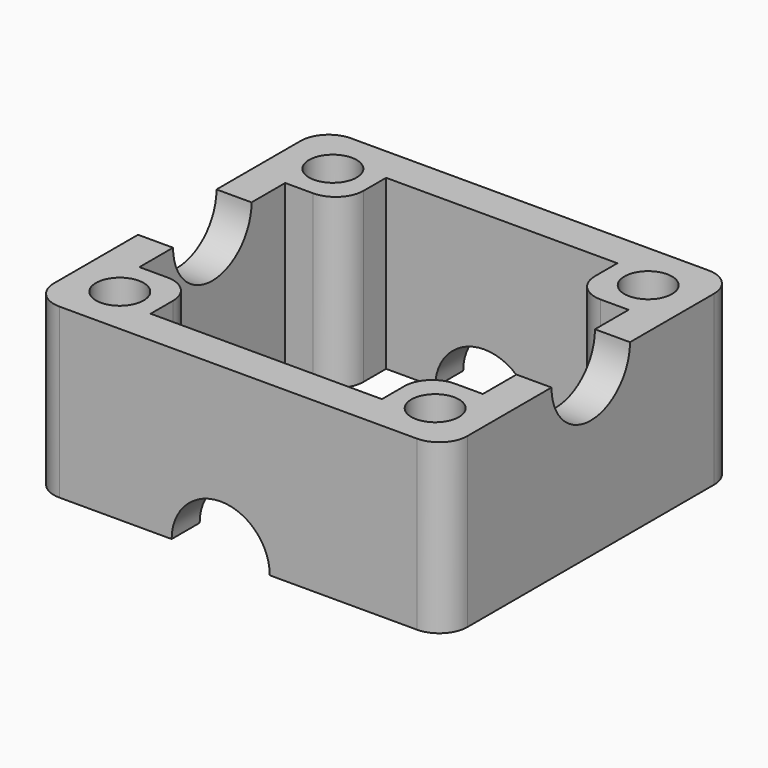
from build123d import *

# Parameters (mm, degrees)
CYLINDER135_R             = 1.7
CYLINDER135_DEPTH         = 16
CYLINDER136_R             = 1.7
CYLINDER136_DEPTH         = 16
CYLINDER137_R             = 1.7
CYLINDER137_DEPTH         = 16
CYLINDER138_R             = 1.7
CYLINDER138_DEPTH         = 16
CYLINDER083_R             = 3.5
CYLINDER083_DEPTH         = 2.5
BOX028_W                  = 29.5
BOX028_H                  = 2.5
BOX028_DEPTH              = 12
CYLINDER085_R             = 3.5
CYLINDER085_DEPTH         = 2.5
BOX034_W                  = 29.5
BOX034_H                  = 2.5
BOX034_DEPTH              = 12
CYLINDER086_R             = 3.5
CYLINDER086_DEPTH         = 2.5
BOX018_W                  = 2.5
BOX018_H                  = 21
BOX018_DEPTH              = 12
BOX042_W                  = 4
BOX042_H                  = 4
BOX042_DEPTH              = 12
FILLET002_R               = 2
FILLET002_PLACEMENT_ANGLE = 90
BOX040_W                  = 4
BOX040_H                  = 4
BOX040_DEPTH              = 12
FILLET_R                  = 2
BOX041_W                  = 4
BOX041_H                  = 4
BOX041_DEPTH              = 12
FILLET001_R               = 2
FILLET001_PLACEMENT_ANGLE = 90
BOX043_W                  = 4
BOX043_H                  = 4
BOX043_DEPTH              = 12
FILLET003_R               = 2
FILLET003_PLACEMENT_ANGLE = 180
CYLINDER129_R             = 3.5
CYLINDER129_DEPTH         = 2.5
BOX070_W                  = 2.5
BOX070_H                  = 21
BOX070_DEPTH              = 12
FILLET008_R               = 2


with BuildPart() as cylinder135:
    # Cylinder135 → Cylinder135 (new body)
    with BuildSketch(Plane(origin=(-10, -10.5, 0), x_dir=(1, 0, 0), z_dir=(0, 0, 1))):
        Circle(CYLINDER135_R)
    extrude(amount=CYLINDER135_DEPTH)


with BuildPart() as cylinder136:
    # Cylinder136 → Cylinder136 (new body)
    with BuildSketch(Plane(origin=(-10, -29.5, 0), x_dir=(1, 0, 0), z_dir=(0, 0, 1))):
        Circle(CYLINDER136_R)
    extrude(amount=CYLINDER136_DEPTH)


with BuildPart() as cylinder137:
    # Cylinder137 → Cylinder137 (new body)
    with BuildSketch(Plane(origin=(12.5, -10.5, 0), x_dir=(1, 0, 0), z_dir=(0, 0, 1))):
        Circle(CYLINDER137_R)
    extrude(amount=CYLINDER137_DEPTH)


with BuildPart() as fusion099:
    # Cylinder138 → Cylinder138 (new body)
    with BuildSketch(Plane(origin=(12.5, -29.5, 0), x_dir=(1, 0, 0), z_dir=(0, 0, 1))):
        Circle(CYLINDER138_R)
    extrude(amount=CYLINDER138_DEPTH)

    # Fusion099: union Cylinder135, Cylinder136, Cylinder137
    add(cylinder135.part)
    add(cylinder136.part)
    add(cylinder137.part)


with BuildPart() as cylinder083:
    # Cylinder083 → Cylinder083 (new body)
    with BuildSketch(Plane.XZ.offset(55.5)):
        Circle(CYLINDER083_R)
    extrude(amount=CYLINDER083_DEPTH)


with BuildPart() as cut037:
    # Box028 → Box028 (new body)
    with BuildSketch(Plane(origin=(-13.5, -58, 0), x_dir=(1, 0, 0), z_dir=(0, 0, 1))):
        with Locations((14.75, 1.25)):
            Rectangle(BOX028_W, BOX028_H)
    extrude(amount=BOX028_DEPTH)

    # Cut037: cut Cylinder083
    add(cylinder083.part, mode=Mode.SUBTRACT)


with BuildPart() as cut037_1:
    # Cut037 placement: moved
    add(cut037.part.moved(Location((0, 25, 0))))


with BuildPart() as cylinder085:
    # Cylinder085 → Cylinder085 (new body)
    with BuildSketch(Plane.XZ.offset(55.5)):
        Circle(CYLINDER085_R)
    extrude(amount=CYLINDER085_DEPTH)


with BuildPart() as cut039:
    # Box034 → Box034 (new body)
    with BuildSketch(Plane(origin=(-13.5, -58, 0), x_dir=(1, 0, 0), z_dir=(0, 0, 1))):
        with Locations((14.75, 1.25)):
            Rectangle(BOX034_W, BOX034_H)
    extrude(amount=BOX034_DEPTH)

    # Cut039: cut Cylinder085
    add(cylinder085.part, mode=Mode.SUBTRACT)


with BuildPart() as cut039_1:
    # Cut039 placement: moved
    add(cut039.part.moved(Location((0, 48.5, 0))))


with BuildPart() as cylinder086:
    # Cylinder086 → Cylinder086 (new body)
    with BuildSketch(Plane(origin=(-11, -20, 12), x_dir=(0, 0, 1), z_dir=(-1, 0, 0))):
        Circle(CYLINDER086_R)
    extrude(amount=CYLINDER086_DEPTH)


with BuildPart() as cut075:
    # Box018 → Box018 (new body)
    with BuildSketch(Plane(origin=(-13.5, -30.5, 0), x_dir=(1, 0, 0), z_dir=(0, 0, 1))):
        with Locations((1.25, 10.5)):
            Rectangle(BOX018_W, BOX018_H)
    extrude(amount=BOX018_DEPTH)

    # Cut075: cut Cylinder086
    add(cylinder086.part, mode=Mode.SUBTRACT)


with BuildPart() as cut075_1:
    # Cut075 placement: moved
    add(cut075.part.moved(Location((27, 0, 0))))


with BuildPart() as fillet002:
    # Box042 → Box042 (new body)
    with BuildSketch(Plane(origin=(-11, -39, 0), x_dir=(1, 0, 0), z_dir=(0, 0, 1))):
        with Locations((2, 2)):
            Rectangle(BOX042_W, BOX042_H)
    extrude(amount=BOX042_DEPTH)

    # Fillet002
    fillet002_edges = [fillet002.edges().sort_by_distance(p)[0] for p in [
        (-7, -39, 6),
    ]]
    fillet(fillet002_edges, radius=FILLET002_R)


with BuildPart() as fillet002_1:
    # Fillet002 placement: moved
    add(fillet002.part.moved(Location((48.5, -20.5, 0))).rotate(Axis((48.5, -20.5, 0), (0, 0, -1)), FILLET002_PLACEMENT_ANGLE))


with BuildPart() as fillet_body:
    # Box040 → Box040 (new body)
    with BuildSketch(Plane(origin=(-11, -39, 0), x_dir=(1, 0, 0), z_dir=(0, 0, 1))):
        with Locations((2, 2)):
            Rectangle(BOX040_W, BOX040_H)
    extrude(amount=BOX040_DEPTH)

    # Fillet
    fillet_edges = [fillet_body.edges().sort_by_distance(p)[0] for p in [
        (-7, -39, 6),
    ]]
    fillet(fillet_edges, radius=FILLET_R)


with BuildPart() as fillet_body_1:
    # Fillet placement: moved
    add(fillet_body.part.moved(Location((0, 25.5, 0))))


with BuildPart() as fillet001:
    # Box041 → Box041 (new body)
    with BuildSketch(Plane(origin=(-11, -39, 0), x_dir=(1, 0, 0), z_dir=(0, 0, 1))):
        with Locations((2, 2)):
            Rectangle(BOX041_W, BOX041_H)
    extrude(amount=BOX041_DEPTH)

    # Fillet001
    fillet001_edges = [fillet001.edges().sort_by_distance(p)[0] for p in [
        (-7, -39, 6),
    ]]
    fillet(fillet001_edges, radius=FILLET001_R)


with BuildPart() as fillet001_1:
    # Fillet001 placement: moved
    add(fillet001.part.moved(Location((-46, -19.5, 0))).rotate(Axis((-46, -19.5, 0), (0, 0, 1)), FILLET001_PLACEMENT_ANGLE))


with BuildPart() as fillet003:
    # Box043 → Box043 (new body)
    with BuildSketch(Plane(origin=(-11, -39, 0), x_dir=(1, 0, 0), z_dir=(0, 0, 1))):
        with Locations((2, 2)):
            Rectangle(BOX043_W, BOX043_H)
    extrude(amount=BOX043_DEPTH)

    # Fillet003
    fillet003_edges = [fillet003.edges().sort_by_distance(p)[0] for p in [
        (-7, -39, 6),
    ]]
    fillet(fillet003_edges, radius=FILLET003_R)


with BuildPart() as fillet003_1:
    # Fillet003 placement: moved
    add(fillet003.part.moved(Location((2.5, -65.5, 0))).rotate(Axis((2.5, -65.5, 0), (0, 0, 1)), FILLET003_PLACEMENT_ANGLE))


with BuildPart() as cylinder129:
    # Cylinder129 → Cylinder129 (new body)
    with BuildSketch(Plane(origin=(-11, -20, 12), x_dir=(0, 0, 1), z_dir=(-1, 0, 0))):
        Circle(CYLINDER129_R)
    extrude(amount=CYLINDER129_DEPTH)


with BuildPart() as fillet008:
    # Box070 → Box070 (new body)
    with BuildSketch(Plane(origin=(-13.5, -30.5, 0), x_dir=(1, 0, 0), z_dir=(0, 0, 1))):
        with Locations((1.25, 10.5)):
            Rectangle(BOX070_W, BOX070_H)
    extrude(amount=BOX070_DEPTH)

    # Cut077: cut Cylinder129
    add(cylinder129.part, mode=Mode.SUBTRACT)

    # Fusion106: union Cut037, Cut039, Cut075, Fillet002, Fillet body, Fillet001, Fillet003
    add(cut037_1.part)
    add(cut039_1.part)
    add(cut075_1.part)
    add(fillet002_1.part)
    add(fillet_body_1.part)
    add(fillet001_1.part)
    add(fillet003_1.part)

    # Cut084: cut Fusion099
    add(fusion099.part, mode=Mode.SUBTRACT)

    # Fillet008
    fillet008_edges = [fillet008.edges().sort_by_distance(p)[0] for p in [
        (-13.5, -7, 6),
        (-13.5, -33, 6),
        (16, -7, 6),
        (16, -33, 6),
    ]]
    fillet(fillet008_edges, radius=FILLET008_R)


solid = fillet008.part
